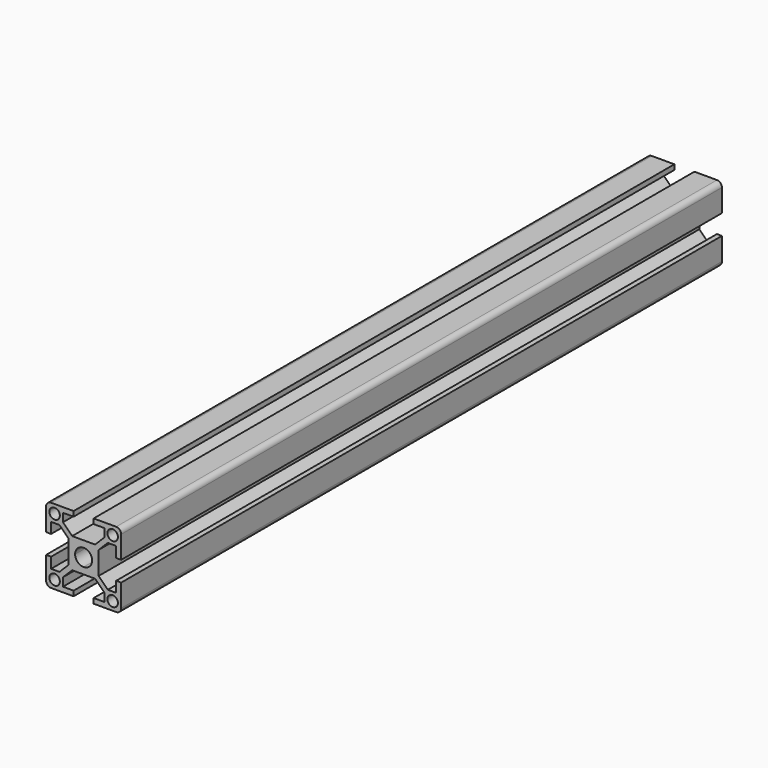
from build123d import *

# Parameters (mm, degrees)
F0_R     = 2.1
F1_DEPTH = 300


with BuildPart() as f1:
    # F0 (on Front) → F1 (new body)
    with BuildSketch(Plane.XZ):
        with BuildLine():
            Line((4.585786, 6), (0, 6))
            Line((0, 6), (-4.585786, 6))
            Line((-4.585786, 6), (-8.25, 9.664214))
            Line((-8.25, 9.664214), (-8.25, 13))
            Line((-8.25, 13), (-4, 13))
            Line((-4, 13), (-4, 15))
            Line((-4, 15), (-13, 15))
            ThreePointArc((-13, 15), (-14.414214, 14.414214), (-15, 13))
            Line((-15, 13), (-15, 4))
            Line((-15, 4), (-13, 4))
            Line((-13, 4), (-13, 8.25))
            Line((-13, 8.25), (-9.664214, 8.25))
            Line((-9.664214, 8.25), (-6, 4.585786))
            Line((-6, 4.585786), (-6, 0))
            Line((-6, 0), (-6, -4.585786))
            Line((-6, -4.585786), (-9.664214, -8.25))
            Line((-9.664214, -8.25), (-13, -8.25))
            Line((-13, -8.25), (-13, -4))
            Line((-13, -4), (-15, -4))
            Line((-15, -4), (-15, -13))
            ThreePointArc((-15, -13), (-14.414214, -14.414214), (-13, -15))
            Line((-13, -15), (-4, -15))
            Line((-4, -15), (-4, -13))
            Line((-4, -13), (-8.25, -13))
            Line((-8.25, -13), (-8.25, -9.664214))
            Line((-8.25, -9.664214), (-4.585786, -6))
            Line((-4.585786, -6), (0, -6))
            Line((0, -6), (4.585786, -6))
            Line((4.585786, -6), (8.25, -9.664214))
            Line((8.25, -9.664214), (8.25, -13))
            Line((8.25, -13), (4, -13))
            Line((4, -13), (4, -15))
            Line((4, -15), (13, -15))
            ThreePointArc((13, -15), (14.414214, -14.414214), (15, -13))
            Line((15, -13), (15, -4))
            Line((15, -4), (13, -4))
            Line((13, -4), (13, -8.25))
            Line((13, -8.25), (9.664214, -8.25))
            Line((9.664214, -8.25), (6, -4.585786))
            Line((6, -4.585786), (6, 0))
            Line((6, 0), (6, 4.585786))
            Line((6, 4.585786), (9.664214, 8.25))
            Line((9.664214, 8.25), (13, 8.25))
            Line((13, 8.25), (13, 4))
            Line((13, 4), (15, 4))
            Line((15, 4), (15, 13))
            ThreePointArc((15, 13), (14.414214, 14.414214), (13, 15))
            Line((13, 15), (4, 15))
            Line((4, 15), (4, 13))
            Line((4, 13), (8.25, 13))
            Line((8.25, 13), (8.25, 9.664214))
            Line((8.25, 9.664214), (4.585786, 6))
        make_face()
        with Locations((-11.6, -11.6)):
            Circle(F0_R, mode=Mode.SUBTRACT)
        with Locations((11.6, -11.6)):
            Circle(F0_R, mode=Mode.SUBTRACT)
        with Locations((-11.6, 11.6)):
            Circle(F0_R, mode=Mode.SUBTRACT)
        with BuildLine():
            ThreePointArc((-3.4, 0), (-2.404163, 2.404163), (0, 3.4))
            ThreePointArc((0, 3.4), (2.404163, 2.404163), (3.4, 0))
            ThreePointArc((3.4, 0), (2.404163, -2.404163), (0, -3.4))
            ThreePointArc((0, -3.4), (-2.404163, -2.404163), (-3.4, 0))
        make_face(mode=Mode.SUBTRACT)
        with Locations((11.6, 11.6)):
            Circle(F0_R, mode=Mode.SUBTRACT)
    extrude(amount=F1_DEPTH)


solid = f1.part
